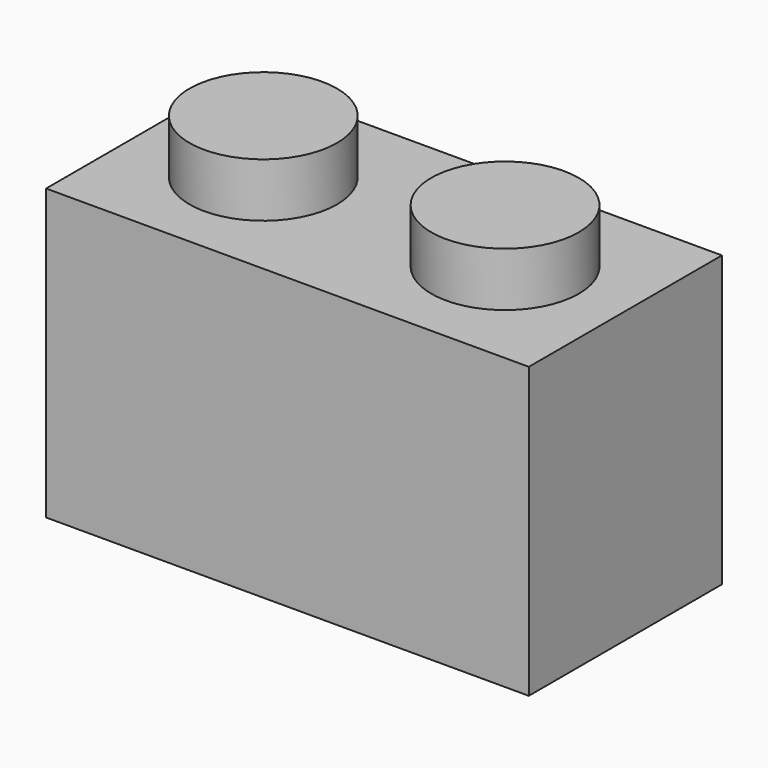
from build123d import *

# Parameters (mm, degrees)
F0_W     = 15.875
F0_H     = 7.9375
F1_DEPTH = 9.525
F2_R     = 2.4257
F4_DEPTH = 1.778
F3_R     = 2.4257
F5_DEPTH = 1.778
F6_W     = 13.6906
F6_H     = 5.7531
F7_DEPTH = 8.4328


with BuildPart() as f1:
    # F0 (on Top) → F1 (new body)
    with BuildSketch(Plane.XY):
        with Locations((-20.961086, 23.913214)):
            Rectangle(F0_W, F0_H)
    extrude(amount=F1_DEPTH)

    # F2 (on face) → F4 (join)
    with BuildSketch(Plane.XY.offset(9.525)):
        with Locations((-24.936186, 23.919564)):
            Circle(F2_R)
    extrude(amount=F4_DEPTH)

    # F3 (on face) → F5 (join)
    with BuildSketch(Plane.XY.offset(9.525)):
        with Locations((-16.985986, 23.919564)):
            Circle(F3_R)
    extrude(amount=F5_DEPTH)

    # F6 (on face) → F7 (cut)
    with BuildSketch(Plane(origin=(0, 0, 0), x_dir=(1, 0, 0), z_dir=(0, 0, -1))):
        with Locations((-20.961086, -23.913214)):
            Rectangle(F6_W, F6_H)
    extrude(amount=-F7_DEPTH, mode=Mode.SUBTRACT)


solid = f1.part
